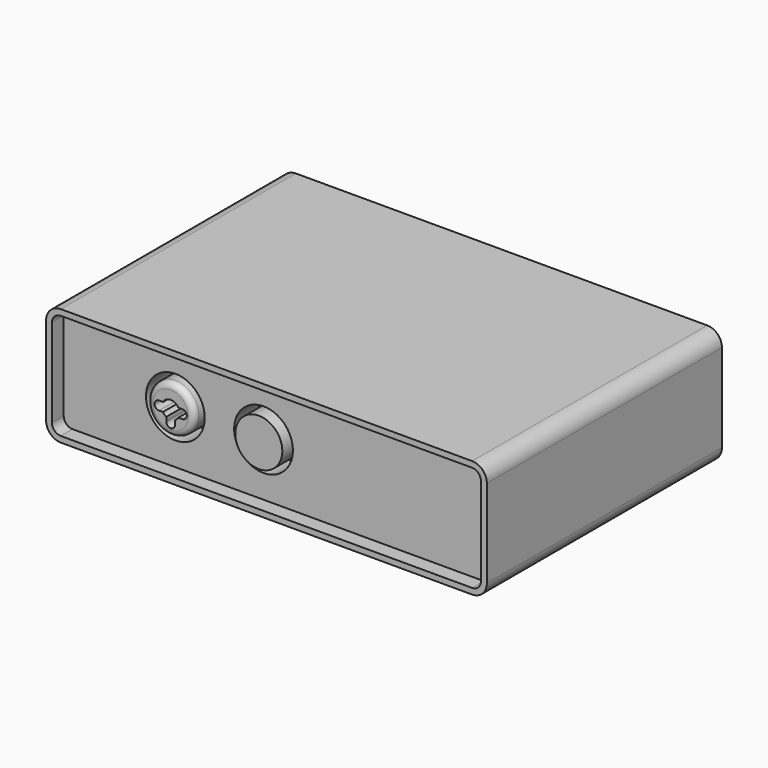
from build123d import *

# Parameters (mm, degrees)
F1_DEPTH = 50
F3_DEPTH = 45
F4_R     = 10
F5_DEPTH = 10
F6_R     = 8
F7_DEPTH = 12
F9_DEPTH = 25
F10_R    = 2


with BuildPart() as f1:
    # F0 (on Front) → F1 (new body, symmetric)
    with BuildSketch(Plane.XZ):
        with BuildLine():
            ThreePointArc((-75, -15), (-73.535534, -18.535534), (-70, -20))
            Line((-70, -20), (70, -20))
            ThreePointArc((70, -20), (73.535534, -18.535534), (75, -15))
            Line((75, -15), (75, 15))
            ThreePointArc((75, 15), (73.535534, 18.535534), (70, 20))
            Line((70, 20), (-70, 20))
            ThreePointArc((-70, 20), (-73.535534, 18.535534), (-75, 15))
            Line((-75, 15), (-75, -15))
        make_face()
        with BuildLine():
            Line((73, 15), (73, -15))
            ThreePointArc((73, -15), (72.12132, -17.12132), (70, -18))
            Line((70, -18), (-70, -18))
            ThreePointArc((-70, -18), (-72.12132, -17.12132), (-73, -15))
            Line((-73, -15), (-73, 15))
            ThreePointArc((-73, 15), (-72.12132, 17.12132), (-70, 18))
            Line((-70, 18), (70, 18))
            ThreePointArc((70, 18), (72.12132, 17.12132), (73, 15))
        make_face(mode=Mode.SUBTRACT)
    extrude(amount=F1_DEPTH, both=True)

    # F2 (on Front) → F3 (join, symmetric)
    with BuildSketch(Plane.XZ):
        with BuildLine():
            Line((-73, 15), (-73, -15))
            ThreePointArc((-73, -15), (-72.12132, -17.12132), (-70, -18))
            Line((-70, -18), (70, -18))
            ThreePointArc((70, -18), (72.12132, -17.12132), (73, -15))
            Line((73, -15), (73, 15))
            ThreePointArc((73, 15), (72.12132, 17.12132), (70, 18))
            Line((70, 18), (-70, 18))
            ThreePointArc((-70, 18), (-72.12132, 17.12132), (-73, 15))
        make_face()
    extrude(amount=F3_DEPTH, both=True)

    # F4 (on face) → F5 (cut)
    with BuildSketch(Plane.XZ.offset(45)):
        with Locations((-35, 0)):
            Circle(F4_R)
        with Locations((-5, 0)):
            Circle(F4_R)
    extrude(amount=-F5_DEPTH, mode=Mode.SUBTRACT)

    # F6 (on face) → F7 (join)
    with BuildSketch(Plane.XZ.offset(35)):
        with Locations((-5, 0)):
            Circle(F6_R)
        with Locations((-35, 0)):
            Circle(F6_R)
    extrude(amount=F7_DEPTH)

    # F8 (on face) → F9 (cut)
    with BuildSketch(Plane.XZ.offset(47)):
        with BuildLine():
            Line((-38.971294, -1.499725), (-37.598235, -1.499725))
            ThreePointArc((-37.598235, -1.499725), (-37.120455, -2.122186), (-36.497605, -2.599457))
            Line((-36.497605, -2.599457), (-36.497605, -3.91527))
            Line((-36.497605, -3.91527), (-36.497605, -4.08473))
            ThreePointArc((-36.497605, -4.08473), (-34.985556, -5.49993), (-33.501041, -4.055874))
            Line((-33.501041, -4.055874), (-33.501041, -3.944126))
            Line((-33.501041, -3.944126), (-33.501041, -2.598677))
            ThreePointArc((-33.501041, -2.598677), (-32.878992, -2.121633), (-32.401765, -1.499725))
            Line((-32.401765, -1.499725), (-31.028708, -1.499725))
            Line((-31.028708, -1.499725), (-30.971292, -1.499725))
            ThreePointArc((-30.971292, -1.499725), (-29.500069, 0.01438), (-31.000052, 1.5))
            Line((-31.000052, 1.5), (-32.401896, 1.499952))
            ThreePointArc((-32.401896, 1.499952), (-35.000103, 3), (-37.598207, 1.499773))
            Line((-37.598207, 1.499773), (-38.971294, 1.499725))
            ThreePointArc((-38.971294, 1.499725), (-40.5, 0), (-38.971294, -1.499725))
        make_face()
        with BuildLine():
            Line((-36.497605, -4.08473), (-36.497605, -3.91527))
            ThreePointArc((-36.497605, -3.91527), (-36.5, -4), (-36.497605, -4.08473))
        make_face()
        with BuildLine():
            Line((-33.501041, -3.944126), (-33.501041, -4.055874))
            ThreePointArc((-33.501041, -4.055874), (-33.5, -4), (-33.501041, -3.944126))
        make_face()
        with BuildLine():
            ThreePointArc((-31.028708, -1.499725), (-31, -1.5), (-30.971292, -1.499725))
            Line((-30.971292, -1.499725), (-31.028708, -1.499725))
        make_face()
    extrude(amount=-F9_DEPTH, mode=Mode.SUBTRACT)

    # F10
    f10_edges = [f1.edges().sort_by_distance(p)[0] for p in [
        (-43, -47, 0),
    ]]
    fillet(f10_edges, radius=F10_R)


solid = f1.part
